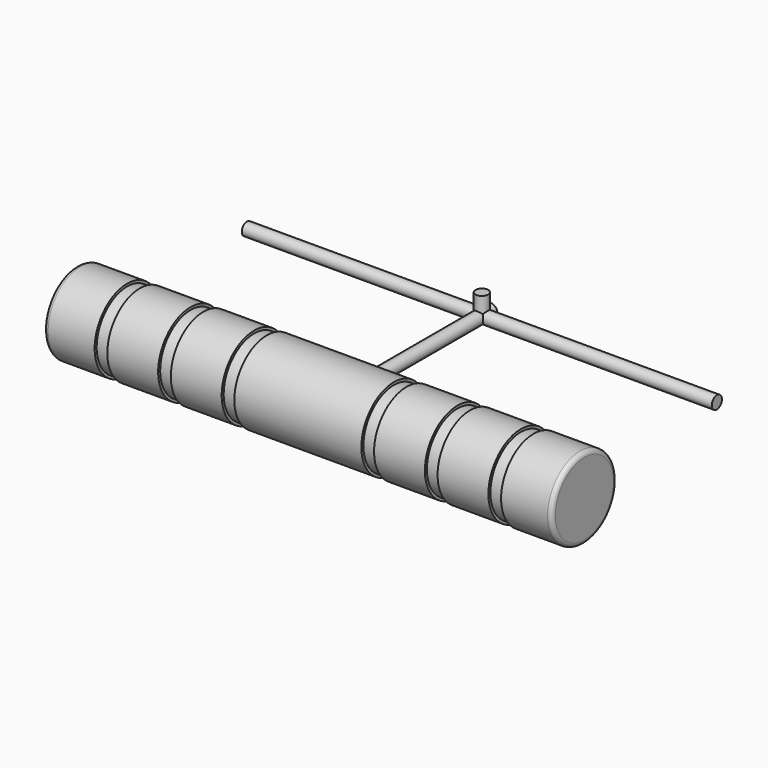
from build123d import *

# Parameters (mm, degrees)
F0_W      = 5.08
F0_H      = 0.254
F0_W_2    = 6.35
F2_R      = 0.4318
F4_R      = 0.635
F5_DEPTH  = 20.32
F8_START  = -95.1992
F7_R      = 0.635
F8_DEPTH  = 2.0365094288
F10_START = -354.15474
F9_R      = 0.635
F10_DEPTH = 46.99


with BuildPart() as f1:
    # F0 (on Front) → F1 (revolve)
    with BuildSketch(Plane.XZ):
        with Locations((-400.3094677782, -67.9082896452)):
            Rectangle(F0_W, F0_H)
        Polygon((-397.7694677782, -68.0352896452), (-402.8494677782, -68.0352896452), (-402.8494677782, -71.8452896452), (-352.0494677782, -71.8452896452), (-352.0494677782, -68.0352896452), (-357.1294677782, -68.0352896452), (-358.3994677782, -68.0352896452), (-363.4794677782, -68.0352896452), (-364.7494677782, -68.0352896452), (-369.8294677782, -68.0352896452), (-371.0994677782, -68.0352896452), (-377.4494677782, -68.0352896452), (-383.7994677782, -68.0352896452), (-385.0694677782, -68.0352896452), (-390.1494677782, -68.0352896452), (-391.4194677782, -68.0352896452), (-396.4994677782, -68.0352896452), align=None)
        with Locations((-393.9594677782, -67.9082896452)):
            Rectangle(F0_W, F0_H)
        with Locations((-354.5894677782, -67.9082896452)):
            Rectangle(F0_W, F0_H)
        with Locations((-387.6094677782, -67.9082896452)):
            Rectangle(F0_W, F0_H)
        with Locations((-360.9394677782, -67.9082896452)):
            Rectangle(F0_W, F0_H)
        with Locations((-380.6244677782, -67.9082896452)):
            Rectangle(F0_W_2, F0_H)
        with Locations((-374.2744677782, -67.9082896452)):
            Rectangle(F0_W_2, F0_H)
        with Locations((-367.2894677782, -67.9082896452)):
            Rectangle(F0_W, F0_H)
    revolve(axis=Axis((-377.4494677782, 0, -71.8452896452), (-1, 0, 0)))

    # F2
    f2_edges = [f1.edges().sort_by_distance(p)[0] for p in [
        (-352.049468, 0, -75.90929),
        (-402.849468, 0, -75.90929),
    ]]
    fillet(f2_edges, radius=F2_R)

    # F4 (on offset) → F5 (join)
    with BuildSketch(Plane.XZ):
        with Locations((-377.6496052742, -71.8457922339)):
            Circle(F4_R)
    extrude(amount=-F5_DEPTH)

    # F7 (on offset) → F8 (join)
    with BuildSketch(Plane.XY.offset(25.4).offset(F8_START)):
        with Locations((-377.6493370533, 19.1856444748)):
            Circle(F7_R)
    extrude(amount=-F8_DEPTH)

    # F9 (on Right) → F10 (join)
    with BuildSketch(Plane.YZ.offset(F10_START)):
        with Locations((19.183267808, -71.8459340015)):
            Circle(F9_R)
    extrude(amount=-F10_DEPTH)


solid = f1.part
